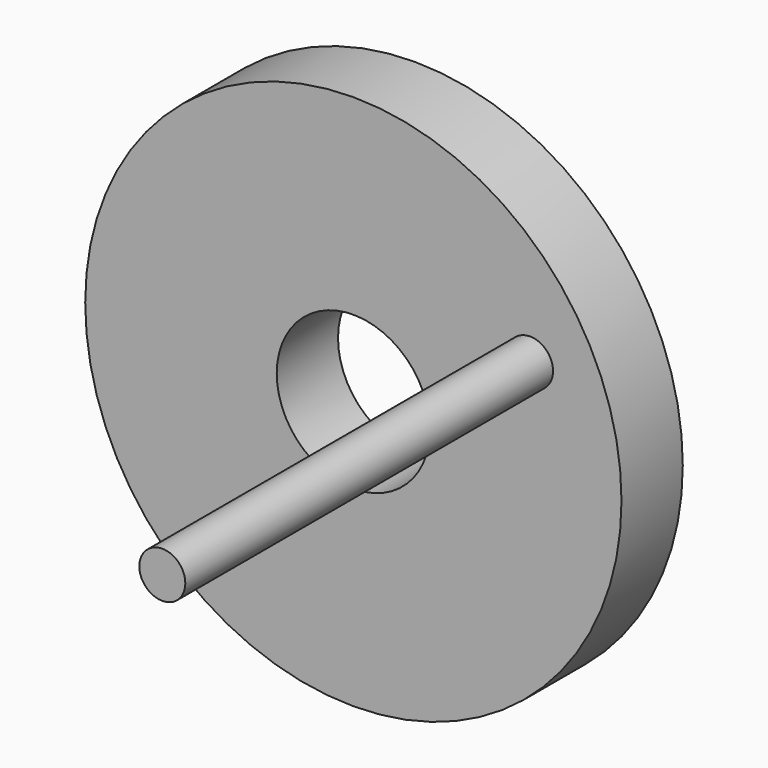
from build123d import *

# Parameters (mm, degrees)
F0_R     = 17.5
F1_DEPTH = 5
F2_R     = 1.5
F3_DEPTH = 30
F5_D     = 10


with BuildPart() as f1:
    # F0 (on Front) → F1 (new body)
    with BuildSketch(Plane.XZ):
        Circle(F0_R)
    extrude(amount=F1_DEPTH)

    # F2 (on face) → F3 (join)
    with BuildSketch(Plane.XZ.offset(5)):
        with Locations((11.532563, 6)):
            Circle(F2_R)
    extrude(amount=F3_DEPTH)

    # F5 (through all)
    with Locations(Plane(origin=(0, 0, 0), x_dir=(1, 0, 0), z_dir=(0, 1, 0))):
        with Locations((0, 0)):
            Hole(F5_D / 2)


solid = f1.part
